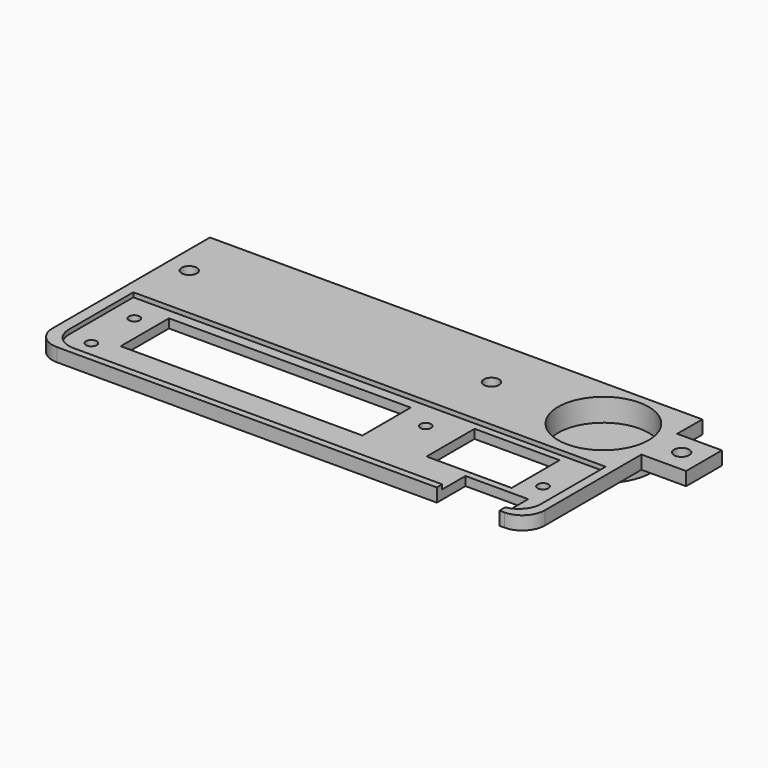
from build123d import *

# Parameters (mm, degrees)
SKETCH_R        = 1.7
PAD_DEPTH       = 3
SKETCH001_W     = 105.5
SKETCH001_H     = 23
POCKET_DEPTH    = 1
SKETCH002_R     = 1.2
SKETCH002_W     = 54
SKETCH002_H     = 13.5
SKETCH002_W_2   = 19
SKETCH002_H_2   = 13.4
POCKET001_DEPTH = 5
FILLET_R        = 5
FILLET001_R     = 5
FILLET002_R     = 5
FILLET003_R     = 5
SKETCH003_W     = 14
SKETCH003_H     = 8
POCKET002_DEPTH = 5
SKETCH004_R     = 11
PAD001_DEPTH    = 3
SKETCH005_R     = 10.1
POCKET003_DEPTH = 5.1


with BuildPart() as part:
    # Sketch → Pad (new body)
    with BuildSketch(Plane.XY):
        Polygon((-12.902803, 11.999952), (12.501955, 11.999952), (12.475984, 5), (22.475984, 5), (22.475984, -5), (12.5, -5), (12.5, -12), (12.5, -37), (-97.5, -37), (-97.5, 11.999952), align=None)
        with Locations((17.475984, 0)):
            Circle(SKETCH_R, mode=Mode.SUBTRACT)
        with Locations((-92.5, 0)):
            Circle(SKETCH_R, mode=Mode.SUBTRACT)
        with Locations((-25, 0)):
            Circle(SKETCH_R, mode=Mode.SUBTRACT)
    extrude(amount=PAD_DEPTH)

    # Sketch001 (on Face15 of Pad) → Pocket (cut)
    with BuildSketch(Plane.XY.offset(3)):
        with Locations((-42.25, -24)):
            Rectangle(SKETCH001_W, SKETCH001_H)
    extrude(amount=-POCKET_DEPTH, mode=Mode.SUBTRACT)

    # Sketch002 (on Face20 of Pocket) → Pocket001 (cut)
    with BuildSketch(Plane.XY.offset(2)):
        with Locations((-89.9, -18.6)):
            Circle(SKETCH002_R)
        with Locations((-89.9, -30.6)):
            Circle(SKETCH002_R)
        with Locations((-24.8, -18.6)):
            Circle(SKETCH002_R)
        with Locations((5.4, -23.6)):
            Circle(SKETCH002_R)
        with Locations((-58.2, -21.55)):
            Rectangle(SKETCH002_W, SKETCH002_H)
        with Locations((-8, -20.8)):
            Rectangle(SKETCH002_W_2, SKETCH002_H_2)
    extrude(amount=-POCKET001_DEPTH, mode=Mode.SUBTRACT)

    # Fillet
    fillet_edges = [part.edges().sort_by_distance(p)[0] for p in [
        (10.5, -35.5, 2.5),
    ]]
    fillet(fillet_edges, radius=FILLET_R)

    # Fillet001
    fillet001_edges = [part.edges().sort_by_distance(p)[0] for p in [
        (-95, -35.5, 2.5),
    ]]
    fillet(fillet001_edges, radius=FILLET001_R)

    # Fillet002
    fillet002_edges = [part.edges().sort_by_distance(p)[0] for p in [
        (-97.5, -37, 1.5),
    ]]
    fillet(fillet002_edges, radius=FILLET002_R)

    # Fillet003
    fillet003_edges = [part.edges().sort_by_distance(p)[0] for p in [
        (12.5, -37, 1.5),
    ]]
    fillet(fillet003_edges, radius=FILLET003_R)

    # Sketch003 (on Face1 of Fillet003) → Pocket002 (cut)
    with BuildSketch(Plane.XY.offset(3)):
        with Locations((-0.6, -33)):
            Rectangle(SKETCH003_W, SKETCH003_H)
    extrude(amount=-POCKET002_DEPTH, mode=Mode.SUBTRACT)

    # Sketch004 (on Face26 of Pocket002) → Pad001 (join)
    with BuildSketch(Plane(origin=(0, 0, 0), x_dir=(1, 0, 0), z_dir=(0, 0, -1))):
        Circle(SKETCH004_R)
    extrude(amount=PAD001_DEPTH)

    # Sketch005 (on Face1 of Pad001) → Pocket003 (cut)
    with BuildSketch(Plane.XY.offset(3)):
        Circle(SKETCH005_R)
    extrude(amount=-POCKET003_DEPTH, mode=Mode.SUBTRACT)


solid = part.part
